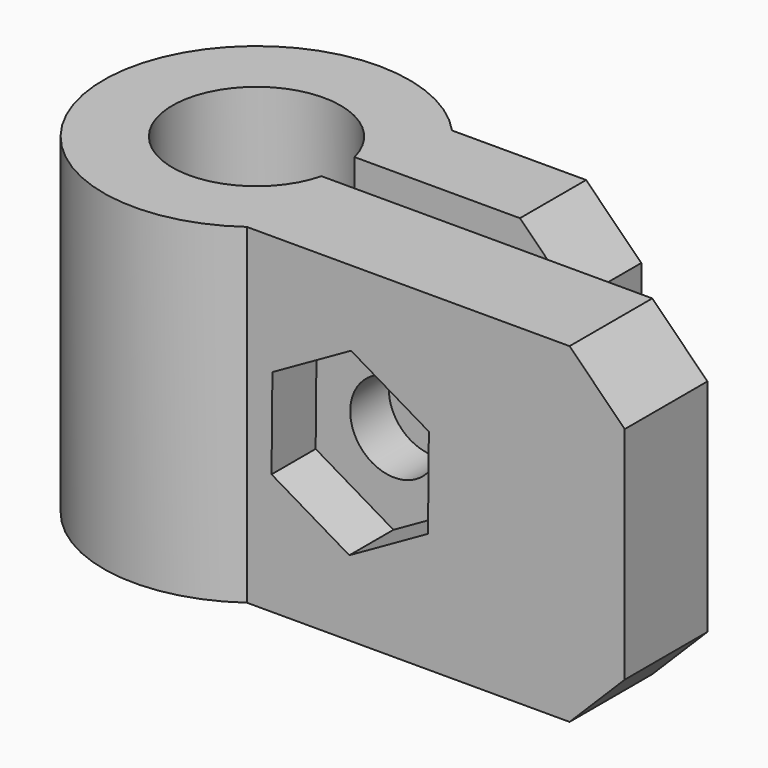
from build123d import *

# Parameters (mm, degrees)
F1_DEPTH = 12
F2_R     = 1.6
F3_DEPTH = 2
F4_DEPTH = 10.051
F5_R     = 1.6
F6_DEPTH = 25
F7_SIZE  = 2


with BuildPart() as f1:
    # F0 (on Top) → F1 (new body)
    with BuildSketch(Plane.XY):
        with BuildLine():
            ThreePointArc((2.9563490998, -0.75), (-3.05, 0), (2.9563490998, 0.75))
            Line((2.9563490998, 0.75), (10.9563490998, 0.75))
            Line((10.9563490998, 0.75), (10.9563490998, 3.75))
            Line((10.9563490998, 3.75), (4.0914545091, 3.75))
            ThreePointArc((4.0914545091, 3.75), (-5.5212512675, 0.5641670326), (3.2484611742, -4.5))
            Line((3.2484611742, -4.5), (16.9563490998, -4.5))
            Line((16.9563490998, -4.5), (16.9563490998, -0.75))
            Line((16.9563490998, -0.75), (2.9563490998, -0.75))
        make_face()
    extrude(amount=F1_DEPTH)

    # F2 (on face) → F3 (cut)
    with BuildSketch(Plane.XZ.offset(4.5)):
        Polygon((9.8514510462, 7.6111043179), (7.0296988427, 9.2763138649), (4.1767089707, 7.665209547), (4.1454713021, 4.3888956821), (6.9672235056, 2.7236861351), (9.8202133776, 4.334790453), align=None)
        with Locations((6.9984611742, 6)):
            Circle(F2_R, mode=Mode.SUBTRACT)
        with Locations((6.9984611742, 6)):
            Circle(F2_R)
    extrude(amount=-F3_DEPTH, mode=Mode.SUBTRACT)

    # F2 (on face) → F4 (cut, through all)
    with BuildSketch(Plane.XZ.offset(4.5)):
        with Locations((6.9984611742, 6)):
            Circle(F2_R)
    extrude(amount=-F4_DEPTH, mode=Mode.SUBTRACT)

    # F5 (on face) → F6 (cut)
    with BuildSketch(Plane(origin=(0, 3.75, 0), x_dir=(-1, 0, 0), z_dir=(0, 1, 0))):
        with Locations((-6.9984611742, 6)):
            Circle(F5_R)
        with BuildLine():
            ThreePointArc((-4.0914545091, 4.5467924273), (-3.8353715721, 5.2534317384), (-3.7484611742, 6))
            ThreePointArc((-3.7484611742, 6), (-3.8353715721, 6.7465682616), (-4.0914545091, 7.4532075727))
            Line((-4.0914545091, 7.4532075727), (-4.0914545091, 4.5467924273))
        make_face()
    extrude(amount=F6_DEPTH, mode=Mode.SUBTRACT)

    # F7
    f7_edges = [f1.edges().sort_by_distance(p)[0] for p in [
        (16.956349, -2.625, 12),
        (16.956349, -2.625, 0),
        (10.956349, 2.25, 0),
        (10.956349, 2.25, 12),
    ]]
    chamfer(f7_edges, length=F7_SIZE)


solid = f1.part
